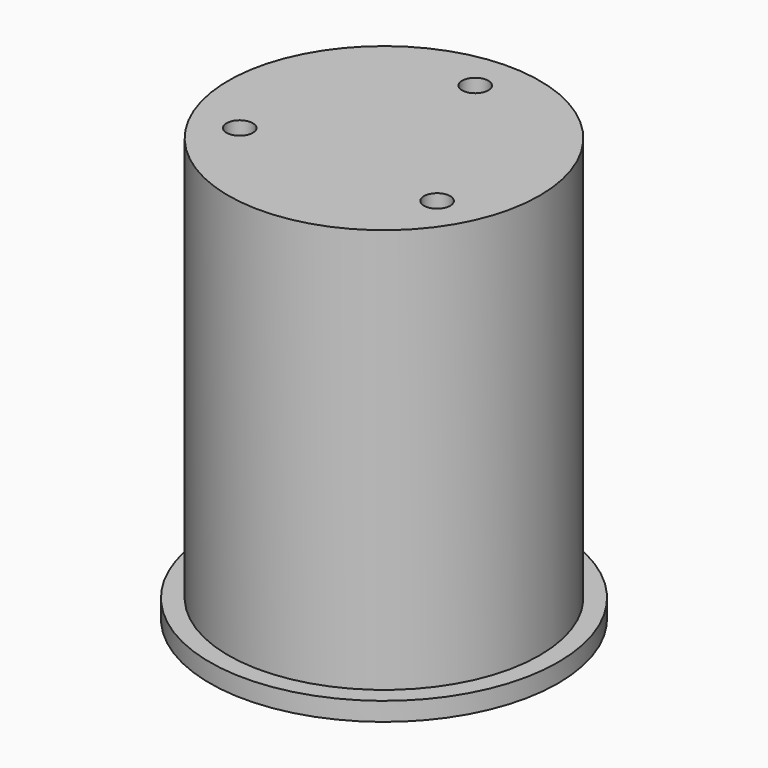
from build123d import *

# Parameters (mm, degrees)
F0_R     = 29.845
F0_R_2   = 23.495
F1_DEPTH = 3.175
F2_R     = 26.67
F2_R_2   = 23.495
F3_DEPTH = 66.1543
F4_R     = 26.67
F4_R_2   = 2.2479
F5_DEPTH = 3.175


with BuildPart() as f1:
    # F0 (on Top) → F1 (new body)
    with BuildSketch(Plane.XY):
        Circle(F0_R)
        Circle(F0_R_2, mode=Mode.SUBTRACT)
    extrude(amount=F1_DEPTH)

    # F2 (on face) → F3 (join)
    with BuildSketch(Plane.XY.offset(3.175)):
        Circle(F2_R)
        Circle(F2_R_2, mode=Mode.SUBTRACT)
    extrude(amount=F3_DEPTH)

    # F4 (on face) → F5 (join)
    with BuildSketch(Plane.XY.offset(69.3293)):
        Circle(F4_R)
        with Locations((-16.910229, -9.763125)):
            Circle(F4_R_2, mode=Mode.SUBTRACT)
        with Locations((16.910229, -9.763125)):
            Circle(F4_R_2, mode=Mode.SUBTRACT)
        with Locations((0, 19.52625)):
            Circle(F4_R_2, mode=Mode.SUBTRACT)
    extrude(amount=F5_DEPTH)


solid = f1.part
